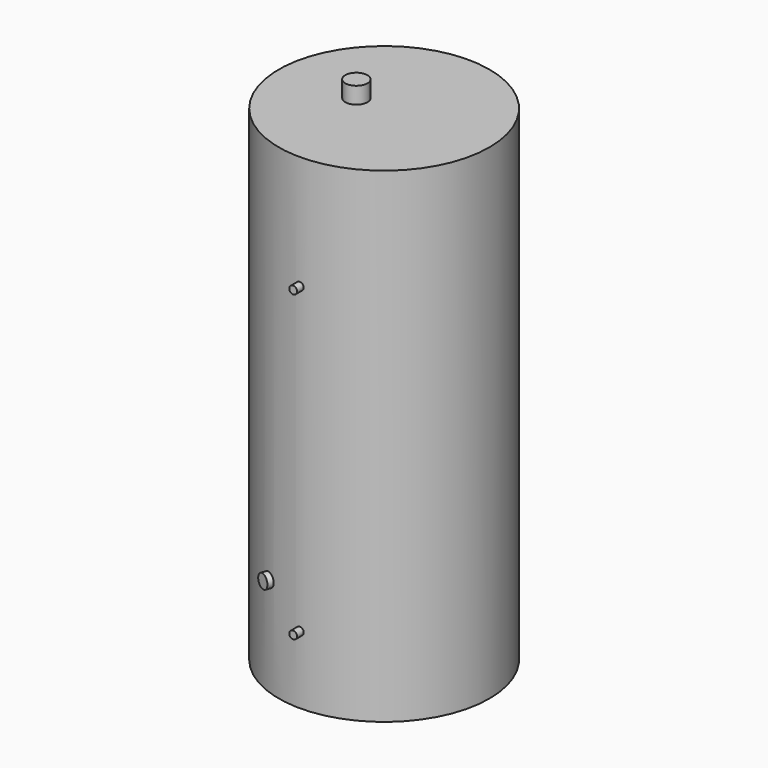
from build123d import *

# Parameters (mm, degrees)
F0_R     = 380
F1_DEPTH = 1750
F2_R     = 14
F3_DEPTH = 410
F4_R     = 40
F5_DEPTH = 60
F8_R     = 25
F9_DEPTH = 400


with BuildPart() as f1:
    # F0 (on Top) → F1 (new body)
    with BuildSketch(Plane.XY):
        Circle(F0_R)
    extrude(amount=F1_DEPTH)

    # F2 (on Front) → F3 (join)
    with BuildSketch(Plane.XZ):
        with Locations((0, 245)):
            Circle(F2_R)
        with Locations((0, 1340)):
            Circle(F2_R)
    extrude(amount=F3_DEPTH)

    # F4 (on face) → F5 (join)
    with BuildSketch(Plane.XY.offset(1750)):
        with Locations((-100, 0)):
            Circle(F4_R)
    extrude(amount=F5_DEPTH)

    # F8 (on face) → F9 (join)
    with BuildSketch(Plane(origin=(0, 0, 0), x_dir=(-0.939693, 0.34202, 0), z_dir=(0.34202, 0.939693, 0))):
        with Locations((0, 357)):
            Circle(F8_R)
    extrude(amount=-F9_DEPTH)


solid = f1.part
